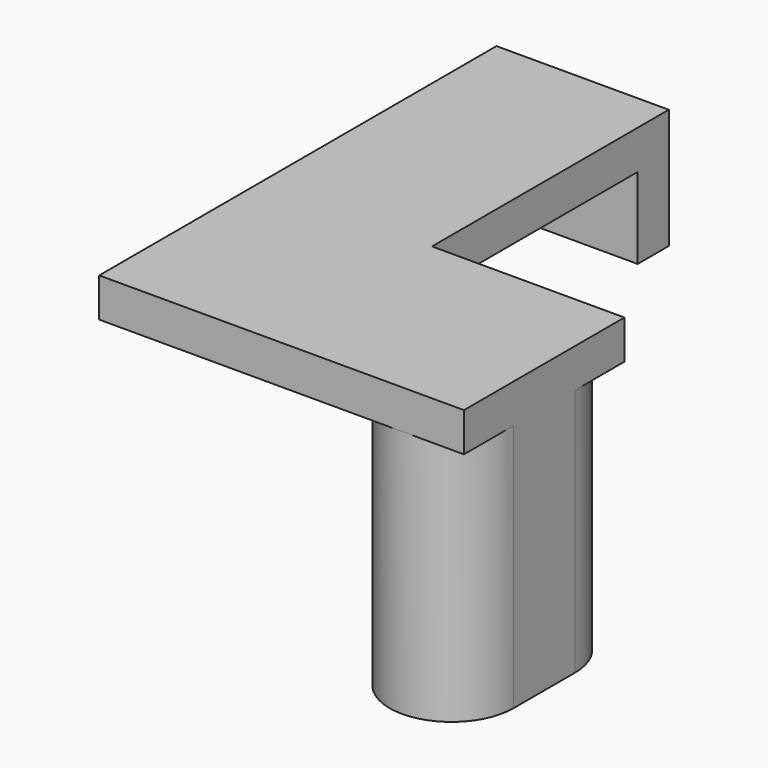
from build123d import *

# Parameters (mm, degrees)
F1_DEPTH = 16.2179
F2_W     = 11.2395
F2_H     = 2.54
F3_DEPTH = 2.54
F4_DEPTH = 5.2832


with BuildPart() as f1:
    # F0 (on Top) → F1 (new body)
    with BuildSketch(Plane.XY):
        with BuildLine():
            Line((0, 5.0038), (0, 0))
            ThreePointArc((0, 0), (4.0386, -4.0386), (8.0772, 0))
            Line((8.0772, 0), (8.0772, 5.0038))
            ThreePointArc((8.0772, 5.0038), (4.0386, 9.0424), (0, 5.0038))
        make_face()
    extrude(amount=F1_DEPTH)

    # F2 (on face) → F3 (join)
    with BuildSketch(Plane.XY.offset(16.2179)):
        with BuildLine():
            Line((4.0386, -4.0386), (8.0772, -4.0386))
            Line((8.0772, -4.0386), (8.0772, 0))
            ThreePointArc((8.0772, 0), (6.8943214465, -2.8557214465), (4.0386, -4.0386))
        make_face()
        with BuildLine():
            ThreePointArc((4.0386, 9.0424), (6.8943214465, 7.8595214465), (8.0772, 5.0038))
            Line((8.0772, 5.0038), (8.0772, 9.0424))
            Line((8.0772, 9.0424), (4.0386, 9.0424))
        make_face()
        with BuildLine():
            ThreePointArc((0, 0), (1.1828785535, -2.8557214465), (4.0386, -4.0386))
            ThreePointArc((4.0386, -4.0386), (6.8943214465, -2.8557214465), (8.0772, 0))
            Line((8.0772, 0), (8.0772, 5.0038))
            ThreePointArc((8.0772, 5.0038), (6.8943214465, 7.8595214465), (4.0386, 9.0424))
            ThreePointArc((4.0386, 9.0424), (1.1828785535, 7.8595214465), (0, 5.0038))
            Line((0, 5.0038), (0, 0))
        make_face()
        with BuildLine():
            Line((-4.47294, -4.0386), (4.0386, -4.0386))
            ThreePointArc((4.0386, -4.0386), (1.1828785535, -2.8557214465), (0, 0))
            Line((0, 0), (0, 5.0038))
            ThreePointArc((0, 5.0038), (1.1828785535, 7.8595214465), (4.0386, 9.0424))
            Line((4.0386, 9.0424), (-4.47294, 9.0424))
            Line((-4.47294, 9.0424), (-4.47294, 25.80894))
            Line((-4.47294, 25.80894), (-15.71244, 25.80894))
            Line((-15.71244, 25.80894), (-15.71244, -4.0386))
            Line((-15.71244, -4.0386), (-4.47294, -4.0386))
        make_face()
        with Locations((-10.09269, 27.07894)):
            Rectangle(F2_W, F2_H)
    extrude(amount=F3_DEPTH)

    # F2 (on face) → F4 (join)
    with BuildSketch(Plane.XY.offset(16.2179)):
        with Locations((-10.09269, 27.07894)):
            Rectangle(F2_W, F2_H)
    extrude(amount=-F4_DEPTH)


solid = f1.part
